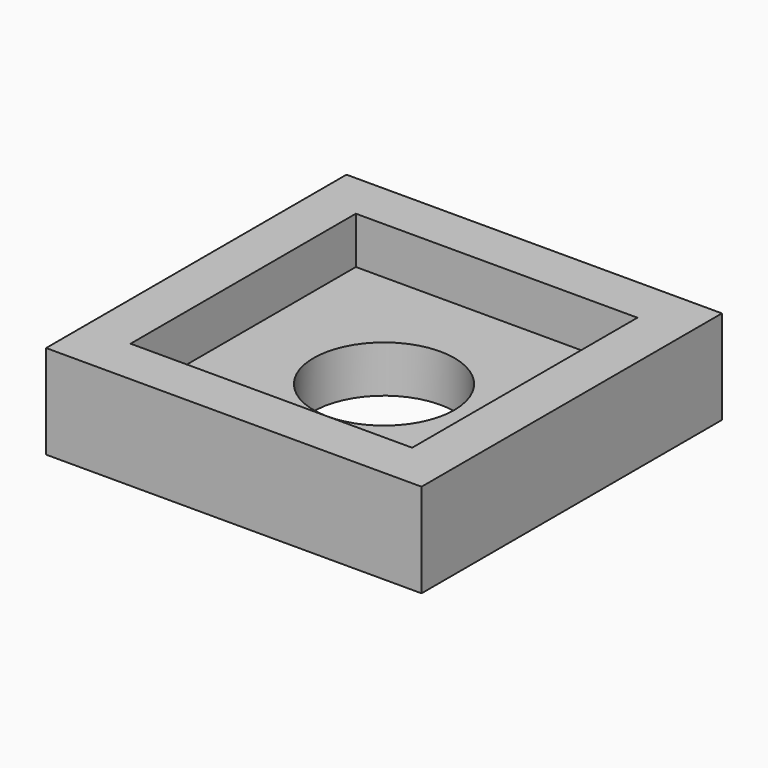
from build123d import *

# Parameters (mm, degrees)
F0_W     = 30
F0_H     = 30
F0_R     = 7.5
F1_DEPTH = 5
F0_W_2   = 40
F0_H_2   = 40
F2_DEPTH = 10


with BuildPart() as f1:
    # F0 (on Top) → F1 (new body)
    with BuildSketch(Plane.XY):
        with Locations((0.022851, -0.057842)):
            Rectangle(F0_W, F0_H)
        with Locations((0.022851, -0.057842)):
            Circle(F0_R, mode=Mode.SUBTRACT)
    extrude(amount=F1_DEPTH)

    # F0 (on Top) → F2 (join)
    with BuildSketch(Plane.XY):
        with Locations((0.022851, -0.057842)):
            Rectangle(F0_W_2, F0_H_2)
        with Locations((0.022851, -0.057842)):
            Rectangle(F0_W, F0_H, mode=Mode.SUBTRACT)
    extrude(amount=F2_DEPTH)


solid = f1.part
